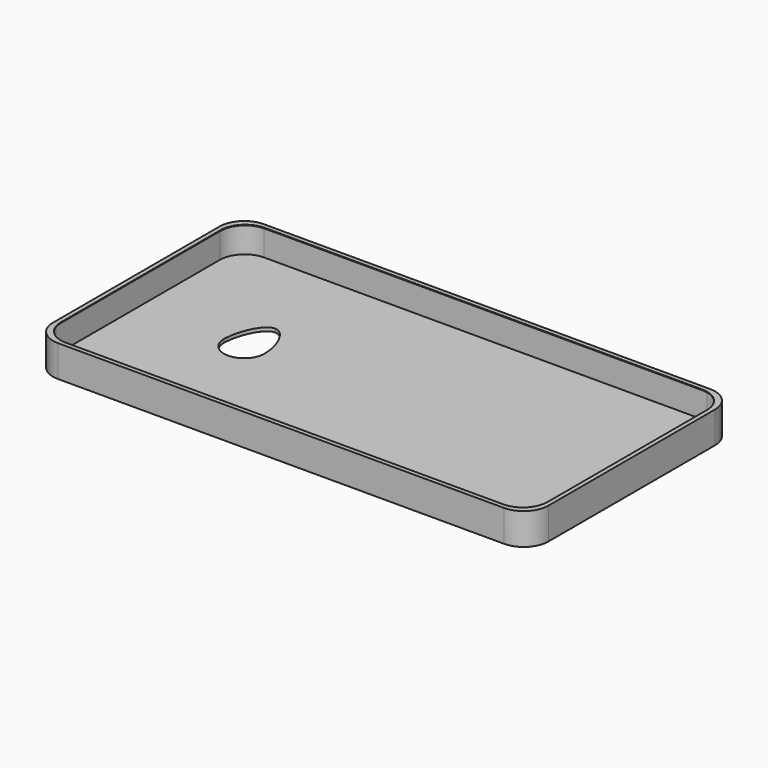
from build123d import *

# Parameters (mm, degrees)
F1_DEPTH = 9
F2_DEPTH = 1
F3_START = 8.8
F3_DEPTH = 0.2


with BuildPart() as f1:
    # F0 (on Top) → F1 (new body)
    with BuildSketch(Plane.XY):
        with BuildLine():
            Line((28.9218353152, 47.4191074908), (-98.2781646848, 47.4191074908))
            ThreePointArc((-98.2781646848, 47.4191074908), (-103.2279121531, 45.3688549591), (-105.2781646848, 40.4191074908))
            Line((-105.2781646848, 40.4191074908), (-105.2781646848, -18.9808925092))
            ThreePointArc((-105.2781646848, -18.9808925092), (-103.2279121531, -23.9306399775), (-98.2781646848, -25.9808925092))
            Line((-98.2781646848, -25.9808925092), (28.9218353152, -25.9808925092))
            ThreePointArc((28.9218353152, -25.9808925092), (33.8715827835, -23.9306399775), (35.9218353152, -18.9808925092))
            Line((35.9218353152, -18.9808925092), (35.9218353152, 40.4191074908))
            ThreePointArc((35.9218353152, 40.4191074908), (33.8715827835, 45.3688549591), (28.9218353152, 47.4191074908))
        make_face()
        with BuildLine():
            ThreePointArc((-104.7781646848, 39.9191074908), (-102.7279121531, 44.8688549591), (-97.7781646848, 46.9191074908))
            Line((-97.7781646848, 46.9191074908), (28.4218353152, 46.9191074908))
            ThreePointArc((28.4218353152, 46.9191074908), (33.3715827835, 44.8688549591), (35.4218353152, 39.9191074908))
            Line((35.4218353152, 39.9191074908), (35.4218353152, -18.4808925092))
            ThreePointArc((35.4218353152, -18.4808925092), (33.3715827835, -23.4306399775), (28.4218353152, -25.4808925092))
            Line((28.4218353152, -25.4808925092), (-97.7781646848, -25.4808925092))
            ThreePointArc((-97.7781646848, -25.4808925092), (-102.7279121531, -23.4306399775), (-104.7781646848, -18.4808925092))
            Line((-104.7781646848, -18.4808925092), (-104.7781646848, 10.7191074908))
            Line((-104.7781646848, 10.7191074908), (-104.7781646848, 39.9191074908))
        make_face(mode=Mode.SUBTRACT)
    extrude(amount=F1_DEPTH)

    # F0 (on Top) → F2 (join)
    with BuildSketch(Plane.XY):
        with BuildLine():
            Line((28.9218353152, 47.4191074908), (-98.2781646848, 47.4191074908))
            ThreePointArc((-98.2781646848, 47.4191074908), (-103.2279121531, 45.3688549591), (-105.2781646848, 40.4191074908))
            Line((-105.2781646848, 40.4191074908), (-105.2781646848, -18.9808925092))
            ThreePointArc((-105.2781646848, -18.9808925092), (-103.2279121531, -23.9306399775), (-98.2781646848, -25.9808925092))
            Line((-98.2781646848, -25.9808925092), (28.9218353152, -25.9808925092))
            ThreePointArc((28.9218353152, -25.9808925092), (33.8715827835, -23.9306399775), (35.9218353152, -18.9808925092))
            Line((35.9218353152, -18.9808925092), (35.9218353152, 40.4191074908))
            ThreePointArc((35.9218353152, 40.4191074908), (33.8715827835, 45.3688549591), (28.9218353152, 47.4191074908))
        make_face()
        with BuildLine():
            ThreePointArc((-104.7781646848, 39.9191074908), (-102.7279121531, 44.8688549591), (-97.7781646848, 46.9191074908))
            Line((-97.7781646848, 46.9191074908), (28.4218353152, 46.9191074908))
            ThreePointArc((28.4218353152, 46.9191074908), (33.3715827835, 44.8688549591), (35.4218353152, 39.9191074908))
            Line((35.4218353152, 39.9191074908), (35.4218353152, -18.4808925092))
            ThreePointArc((35.4218353152, -18.4808925092), (33.3715827835, -23.4306399775), (28.4218353152, -25.4808925092))
            Line((28.4218353152, -25.4808925092), (-97.7781646848, -25.4808925092))
            ThreePointArc((-97.7781646848, -25.4808925092), (-102.7279121531, -23.4306399775), (-104.7781646848, -18.4808925092))
            Line((-104.7781646848, -18.4808925092), (-104.7781646848, 10.7191074908))
            Line((-104.7781646848, 10.7191074908), (-104.7781646848, 39.9191074908))
        make_face(mode=Mode.SUBTRACT)
        with BuildLine():
            Line((28.4218353152, 46.9191074908), (-97.7781646848, 46.9191074908))
            ThreePointArc((-97.7781646848, 46.9191074908), (-102.7279121531, 44.8688549591), (-104.7781646848, 39.9191074908))
            Line((-104.7781646848, 39.9191074908), (-104.7781646848, 10.7191074908))
            Line((-104.7781646848, 10.7191074908), (-104.7781646848, -18.4808925092))
            ThreePointArc((-104.7781646848, -18.4808925092), (-102.7279121531, -23.4306399775), (-97.7781646848, -25.4808925092))
            Line((-97.7781646848, -25.4808925092), (28.4218353152, -25.4808925092))
            ThreePointArc((28.4218353152, -25.4808925092), (33.3715827835, -23.4306399775), (35.4218353152, -18.4808925092))
            Line((35.4218353152, -18.4808925092), (35.4218353152, 39.9191074908))
            ThreePointArc((35.4218353152, 39.9191074908), (33.3715827835, 44.8688549591), (28.4218353152, 46.9191074908))
        make_face()
        with BuildLine():
            Line((-104.0281646848, -17.7308925092), (-104.0281646848, 10.7191074908))
            Line((-104.0281646848, 10.7191074908), (-104.0281646848, 39.1691074908))
            ThreePointArc((-104.0281646848, 39.1691074908), (-101.9779121531, 44.1188549591), (-97.0281646848, 46.1691074908))
            Line((-97.0281646848, 46.1691074908), (27.6718353152, 46.1691074908))
            ThreePointArc((27.6718353152, 46.1691074908), (32.6215827835, 44.1188549591), (34.6718353152, 39.1691074908))
            Line((34.6718353152, 39.1691074908), (34.6718353152, -17.7308925092))
            ThreePointArc((34.6718353152, -17.7308925092), (32.6215827835, -22.6806399775), (27.6718353152, -24.7308925092))
            Line((27.6718353152, -24.7308925092), (-97.0281646848, -24.7308925092))
            ThreePointArc((-97.0281646848, -24.7308925092), (-101.9779121531, -22.6806399775), (-104.0281646848, -17.7308925092))
        make_face(mode=Mode.SUBTRACT)
        with BuildLine():
            Line((-104.0281646848, 39.1691074908), (-104.0281646848, 10.7191074908))
            Line((-104.0281646848, 10.7191074908), (-104.0281646848, -17.7308925092))
            ThreePointArc((-104.0281646848, -17.7308925092), (-101.9779121531, -22.6806399775), (-97.0281646848, -24.7308925092))
            Line((-97.0281646848, -24.7308925092), (27.6718353152, -24.7308925092))
            ThreePointArc((27.6718353152, -24.7308925092), (32.6215827835, -22.6806399775), (34.6718353152, -17.7308925092))
            Line((34.6718353152, -17.7308925092), (34.6718353152, 39.1691074908))
            ThreePointArc((34.6718353152, 39.1691074908), (32.6215827835, 44.1188549591), (27.6718353152, 46.1691074908))
            Line((27.6718353152, 46.1691074908), (-97.0281646848, 46.1691074908))
            ThreePointArc((-97.0281646848, 46.1691074908), (-101.9779121531, 44.1188549591), (-104.0281646848, 39.1691074908))
        make_face()
        with BuildLine():
            ThreePointArc((-68.7781646848, 10.7191074908), (-74.5312646848, 4.9660074908), (-80.2843646848, 10.7191074908))
            ThreePointArc((-80.2843646848, 10.7191074908), (-80.2676868415, 11.1568522219), (-80.2177500076, 11.5920589691))
            add(Edge.make_bspline(
                [(-80.2177500076, 11.5920589691), (-79.9166287785, 16.380589161), (-77.2316050473, 21.7170679747), (-74.5312646848, 21.7191074908)],
                knots=[0.0288652727, 0.0288652727, 0.0288652727, 0.0288652727, 0.4998199399, 0.4998199399, 0.4998199399, 0.4998199399], degree=3))
            add(Edge.make_bspline(
                [(-74.5312646848, 21.7191074908), (-71.6633529752, 21.7212735703), (-68.7781646848, 15.7063938677), (-68.7781646848, 10.7191074908)],
                knots=[0.4998199399, 0.4998199399, 0.4998199399, 0.4998199399, 1, 1, 1, 1], degree=3))
        make_face(mode=Mode.SUBTRACT)
        with BuildLine():
            ThreePointArc((28.3885360956, 14.3148952636), (28.6533737253, 14.9542698611), (29.2927483228, 15.2191074908))
            Line((29.2927483228, 15.2191074908), (30.4843238684, 15.2191074908))
            ThreePointArc((30.4843238684, 15.2191074908), (31.1236984659, 14.9542698611), (31.3885360956, 14.3148952636))
            Line((31.3885360956, 14.3148952636), (31.3885360956, 7.1233197179))
            ThreePointArc((31.3885360956, 7.1233197179), (31.1236984659, 6.4839451205), (30.4843238684, 6.2191074908))
            Line((30.4843238684, 6.2191074908), (29.2927483228, 6.2191074908))
            ThreePointArc((29.2927483228, 6.2191074908), (28.6533737253, 6.4839451205), (28.3885360956, 7.1233197179))
            Line((28.3885360956, 7.1233197179), (28.3885360956, 14.3148952636))
        make_face(mode=Mode.SUBTRACT)
    extrude(amount=F2_DEPTH)

    # F0 (on Top) → F3 (join)
    with BuildSketch(Plane.XY.offset(F3_START)):
        with BuildLine():
            Line((28.4218353152, 46.9191074908), (-97.7781646848, 46.9191074908))
            ThreePointArc((-97.7781646848, 46.9191074908), (-102.7279121531, 44.8688549591), (-104.7781646848, 39.9191074908))
            Line((-104.7781646848, 39.9191074908), (-104.7781646848, 10.7191074908))
            Line((-104.7781646848, 10.7191074908), (-104.7781646848, -18.4808925092))
            ThreePointArc((-104.7781646848, -18.4808925092), (-102.7279121531, -23.4306399775), (-97.7781646848, -25.4808925092))
            Line((-97.7781646848, -25.4808925092), (28.4218353152, -25.4808925092))
            ThreePointArc((28.4218353152, -25.4808925092), (33.3715827835, -23.4306399775), (35.4218353152, -18.4808925092))
            Line((35.4218353152, -18.4808925092), (35.4218353152, 39.9191074908))
            ThreePointArc((35.4218353152, 39.9191074908), (33.3715827835, 44.8688549591), (28.4218353152, 46.9191074908))
        make_face()
        with BuildLine():
            Line((-104.0281646848, -17.7308925092), (-104.0281646848, 10.7191074908))
            Line((-104.0281646848, 10.7191074908), (-104.0281646848, 39.1691074908))
            ThreePointArc((-104.0281646848, 39.1691074908), (-101.9779121531, 44.1188549591), (-97.0281646848, 46.1691074908))
            Line((-97.0281646848, 46.1691074908), (27.6718353152, 46.1691074908))
            ThreePointArc((27.6718353152, 46.1691074908), (32.6215827835, 44.1188549591), (34.6718353152, 39.1691074908))
            Line((34.6718353152, 39.1691074908), (34.6718353152, -17.7308925092))
            ThreePointArc((34.6718353152, -17.7308925092), (32.6215827835, -22.6806399775), (27.6718353152, -24.7308925092))
            Line((27.6718353152, -24.7308925092), (-97.0281646848, -24.7308925092))
            ThreePointArc((-97.0281646848, -24.7308925092), (-101.9779121531, -22.6806399775), (-104.0281646848, -17.7308925092))
        make_face(mode=Mode.SUBTRACT)
    extrude(amount=F3_DEPTH)


solid = f1.part
